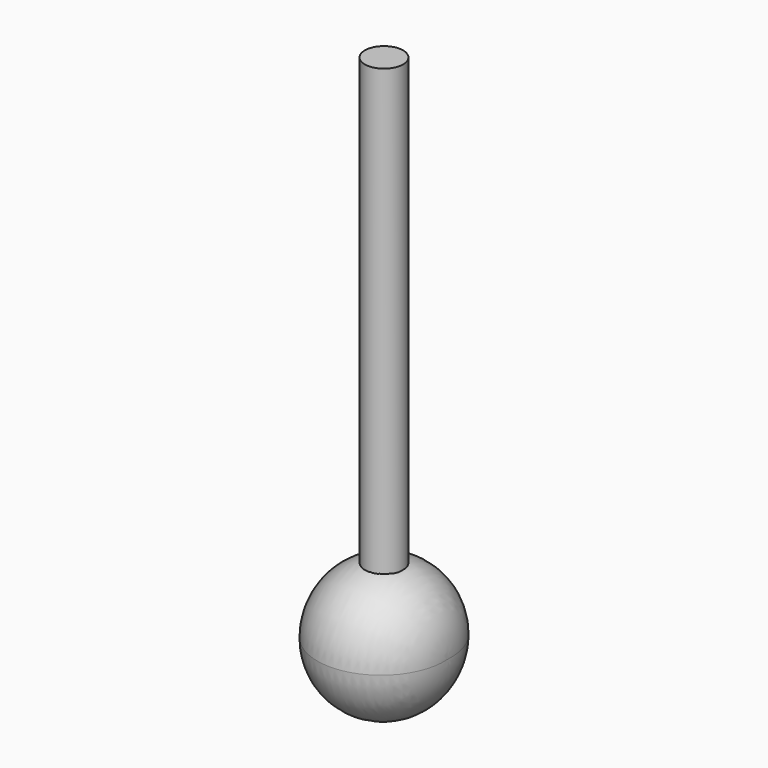
from build123d import *

# Parameters (mm, degrees)
F0_R     = 3
F1_DEPTH = 80
F3_ANGLE = 360


with BuildPart() as f1:
    # F0 (on Top) → F1 (new body)
    with BuildSketch(Plane.XY):
        Circle(F0_R)
    extrude(amount=F1_DEPTH)


with BuildPart() as f3:
    # F2 (on Top) → F3 (revolve, symmetric)
    with BuildSketch(Plane.XY) as f3_sk:
        with BuildLine():
            Line((10, 0), (0, 0))
            Line((0, 0), (-10, 0))
            ThreePointArc((-10, 0), (0, -10.574933), (10, 0))
        make_face()
    revolve(axis=Axis((5, 0, 0), (1, 0, 0)), revolution_arc=F3_ANGLE / 2)
    revolve(f3_sk.sketch, axis=Axis((5, 0, 0), (-1, 0, 0)), revolution_arc=F3_ANGLE / 2)


solid = Compound([f1.part, f3.part])
